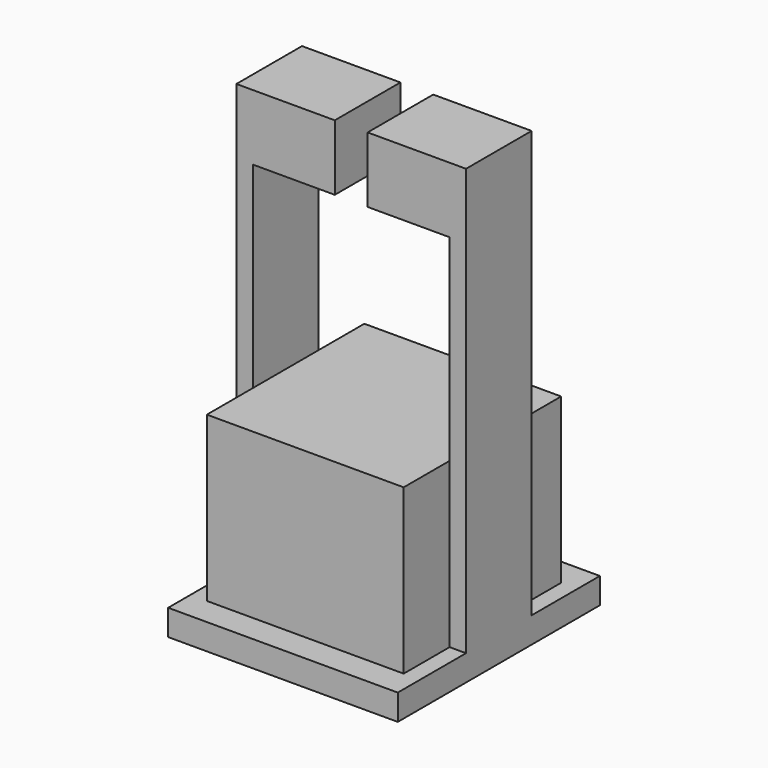
from build123d import *

# Parameters (mm, degrees)
F0_W      = 88.9
F0_H      = 97.79
F1_DEPTH  = 10
F2_W      = 76.2
F2_H      = 76.2
F3_DEPTH  = 63.5
F4_W      = 31.75
F4_H      = 165.1
F5_DEPTH  = 6.35
F6_W      = 31.75
F6_H      = 101.6
F6_H_2    = 63.5
F7_DEPTH  = 6.35
F8_W      = 31.75
F8_H      = 25.4
F9_DEPTH  = 31.75
F10_W     = 31.75
F10_H     = 25.4
F11_DEPTH = 31.75


with BuildPart() as f1:
    # F0 (on Top) → F1 (new body)
    with BuildSketch(Plane.XY):
        with Locations((1.942618, 30.430211)):
            Rectangle(F0_W, F0_H)
    extrude(amount=F1_DEPTH)

    # F2 (on face) → F3 (join)
    with BuildSketch(Plane.XY.offset(10)):
        with Locations((1.942618, 30.430211)):
            Rectangle(F2_W, F2_H)
    extrude(amount=F3_DEPTH)

    # F4 (on face) → F5 (join)
    with BuildSketch(Plane.YZ.offset(40.042618)):
        with Locations((30.430211, 92.55)):
            Rectangle(F4_W, F4_H)
    extrude(amount=F5_DEPTH)

    # F6 (on face) → F7 (join)
    with BuildSketch(Plane(origin=(-36.157382, 0, 0), x_dir=(0, -1, 0), z_dir=(-1, 0, 0))):
        with Locations((-30.430211, 124.3)):
            Rectangle(F6_W, F6_H)
        with Locations((-30.430211, 41.75)):
            Rectangle(F6_W, F6_H_2)
    extrude(amount=F7_DEPTH)

    # F8 (on face) → F9 (join)
    with BuildSketch(Plane(origin=(40.042618, 0, 0), x_dir=(0, -1, 0), z_dir=(-1, 0, 0))):
        with Locations((-30.430211, 162.4)):
            Rectangle(F8_W, F8_H)
    extrude(amount=F9_DEPTH)

    # F10 (on face) → F11 (join)
    with BuildSketch(Plane.YZ.offset(-36.157382)):
        with Locations((30.430211, 162.4)):
            Rectangle(F10_W, F10_H)
    extrude(amount=F11_DEPTH)


solid = f1.part
